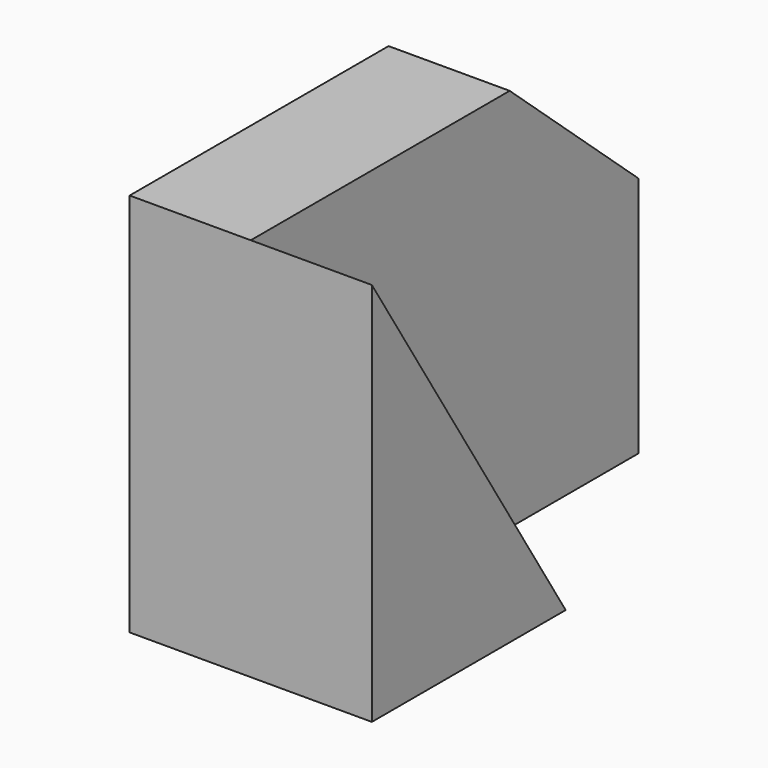
from build123d import *

# Parameters (mm, degrees)
F1_DEPTH = 19.05
F3_DEPTH = 19.05


with BuildPart() as f1:
    # F0 (on Right) → F1 (new body)
    with BuildSketch(Plane.YZ):
        Polygon((0, 60.502801), (0, 0), (76.2, 0), (76.2, 38.1), (50.901599, 60.502801), align=None)
    extrude(amount=F1_DEPTH)

    # F2 (on face) → F3 (join)
    with BuildSketch(Plane.YZ.offset(19.05)):
        Polygon((0, 0), (38.1, 0), (0, 60.502801), align=None)
    extrude(amount=F3_DEPTH)


solid = f1.part
